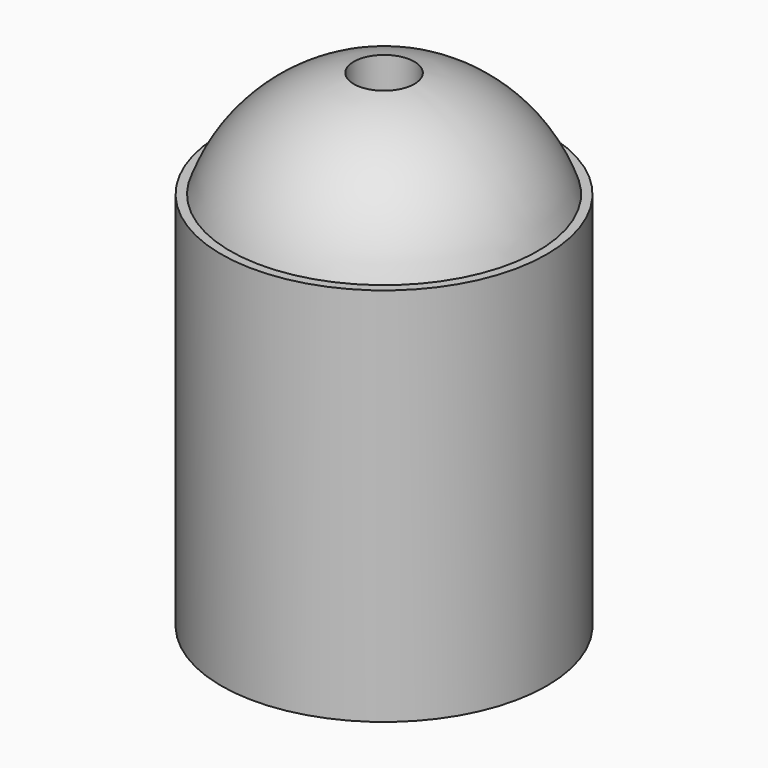
from build123d import *

# Parameters (mm, degrees)
F0_R     = 15
F1_DEPTH = 35
F5_R     = 2.792343
F6_DEPTH = 20


with BuildPart() as f1:
    # F0 (on Top) → F1 (new body)
    with BuildSketch(Plane.XY):
        Circle(F0_R)
    extrude(amount=F1_DEPTH)

    # F2 (on Front) → F3 (revolve)
    with BuildSketch(Plane.XZ):
        with BuildLine():
            Line((0, 29.952514), (0, 45.102068))
            ThreePointArc((0, 45.102068), (-10.659346, 40.655662), (-14.999254, 29.952514))
            Line((-14.999254, 29.952514), (0, 29.952514))
        make_face()
    revolve(axis=Axis((0, 0, 30.102068), (0, 0, -1)))

    # F5 (on offset) → F6 (cut)
    with BuildSketch(Plane.XY.offset(52.5)):
        Circle(F5_R)
    extrude(amount=-F6_DEPTH, mode=Mode.SUBTRACT)


solid = f1.part
